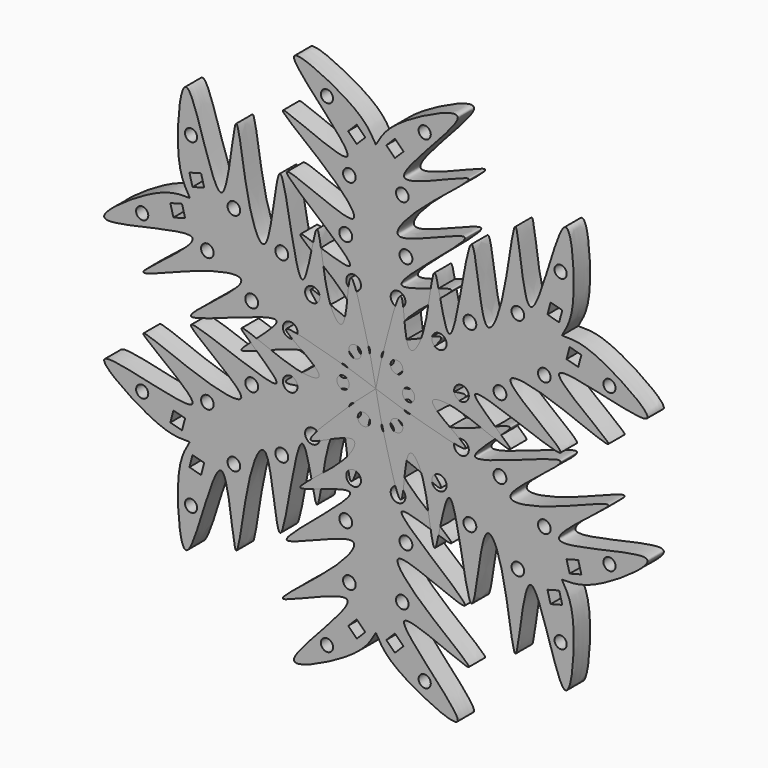
from build123d import *

# Parameters (mm, degrees)
F0_R     = 1.8147986529
F0_R_2   = 2.1649238597
F0_R_3   = 1.8916939875
F0_R_4   = 1.8579115096
F0_R_5   = 1.7884320701
F1_DEPTH = 6
F3_COUNT = 6


with BuildPart() as f1:
    # F0 (on Front) → F1 (new body)
    with BuildSketch(Plane.XZ):
        with BuildLine():
            add(Edge.make_bspline(
                [(0, 63.165590167), (1.5679875179, 65.893105707), (4.5020657492, 71.1029518565), (37.7235243827, 86.9853074798), (-7.6737389489, 46.7455413289), (40.0533948707, 70.7500102133), (11.1762255725, 50.9317307389), (1.0788310453, 36.2976982204), (43.2265499909, 57.91031971), (-7.7989449953, 20.9130891315), (32.9345401688, 38.5363973102), (8.2881356878, 22.6850515863), (3.605721712, 11.5877901388), (26.2644887107, 24.92207893), (7.8561612093, 7.2243975712), (4.6396777034, 3.8460940123), (0, 0)],
                knots=[0, 0, 0, 0, 0.0596756113, 0.1357799985, 0.2270907375, 0.3065360272, 0.3876993916, 0.4420843371, 0.5218867036, 0.6135669703, 0.6827317233, 0.7568028672, 0.8029243798, 0.8670604569, 0.9328989445, 1, 1, 1, 1], degree=3))
            add(Edge.make_bspline(
                [(0, 63.165590167), (-1.5679875179, 65.893105707), (-4.5020657492, 71.1029518565), (-37.7235243827, 86.9853074798), (7.6737389489, 46.7455413289), (-40.0533948707, 70.7500102133), (-11.1762255725, 50.9317307389), (-1.0788310453, 36.2976982204), (-43.2265499909, 57.91031971), (7.7989449953, 20.9130891315), (-32.9345401688, 38.5363973102), (-8.2881356878, 22.6850515863), (-3.605721712, 11.5877901388), (-26.2644887107, 24.92207893), (-7.8561612093, 7.2243975712), (-4.6396777034, 3.8460940123), (0, 0)],
                knots=[0, 0, 0, 0, 0.0596756113, 0.1357799985, 0.2270907375, 0.3065360272, 0.3876993916, 0.4420843371, 0.5218867036, 0.6135669703, 0.6827317233, 0.7568028672, 0.8029243798, 0.8670604569, 0.9328989445, 1, 1, 1, 1], degree=3))
        make_face()
        with Locations((-3.5097682849, 9.0894233435)):
            Circle(F0_R, mode=Mode.SUBTRACT)
        with Locations((-6.5350127406, 25.2833869308)):
            Circle(F0_R_2, mode=Mode.SUBTRACT)
        with Locations((-8.8484361768, 37.0284579694)):
            Circle(F0_R_3, mode=Mode.SUBTRACT)
        with Locations((3.5097682849, 9.0894233435)):
            Circle(F0_R, mode=Mode.SUBTRACT)
        with Locations((6.5350127406, 25.2833869308)):
            Circle(F0_R_2, mode=Mode.SUBTRACT)
        with Locations((8.8484361768, 37.0284579694)):
            Circle(F0_R_3, mode=Mode.SUBTRACT)
        with Locations((-7.7807032503, 52.6885539293)):
            Circle(F0_R_4, mode=Mode.SUBTRACT)
        Polygon((-8.1274701725, 64.0089213848), (-5.6107975543, 66.5255940031), (-3.094124936, 64.0089213848), (-5.6107975543, 61.4922487665), align=None, mode=Mode.SUBTRACT)
        with Locations((-14.3650621176, 71.0179805756)):
            Circle(F0_R_5, mode=Mode.SUBTRACT)
        with Locations((7.7807032503, 52.6885539293)):
            Circle(F0_R_4, mode=Mode.SUBTRACT)
        Polygon((3.094124936, 64.0089213848), (5.6107975543, 66.5255940031), (8.1274701725, 64.0089213848), (5.6107975543, 61.4922487665), align=None, mode=Mode.SUBTRACT)
        with Locations((14.3650621176, 71.0179805756)):
            Circle(F0_R_5, mode=Mode.SUBTRACT)
    extrude(amount=F1_DEPTH)


with BuildPart() as f3_1:
    # F3: instance of F1
    add(f1.part.rotate(Axis((0, -21.6649975628, 0), (0, -1, 0)), 1 * 360 / F3_COUNT))


with BuildPart() as f3_2:
    # F3: instance of F1
    add(f1.part.rotate(Axis((0, -21.6649975628, 0), (0, -1, 0)), 2 * 360 / F3_COUNT))


with BuildPart() as f3_3:
    # F3: instance of F1
    add(f1.part.rotate(Axis((0, -21.6649975628, 0), (0, -1, 0)), 3 * 360 / F3_COUNT))


with BuildPart() as f3_4:
    # F3: instance of F1
    add(f1.part.rotate(Axis((0, -21.6649975628, 0), (0, -1, 0)), 4 * 360 / F3_COUNT))


with BuildPart() as f3_5:
    # F3: instance of F1
    add(f1.part.rotate(Axis((0, -21.6649975628, 0), (0, -1, 0)), 5 * 360 / F3_COUNT))


solid = Compound([f1.part, f3_1.part, f3_2.part, f3_3.part, f3_4.part, f3_5.part])
